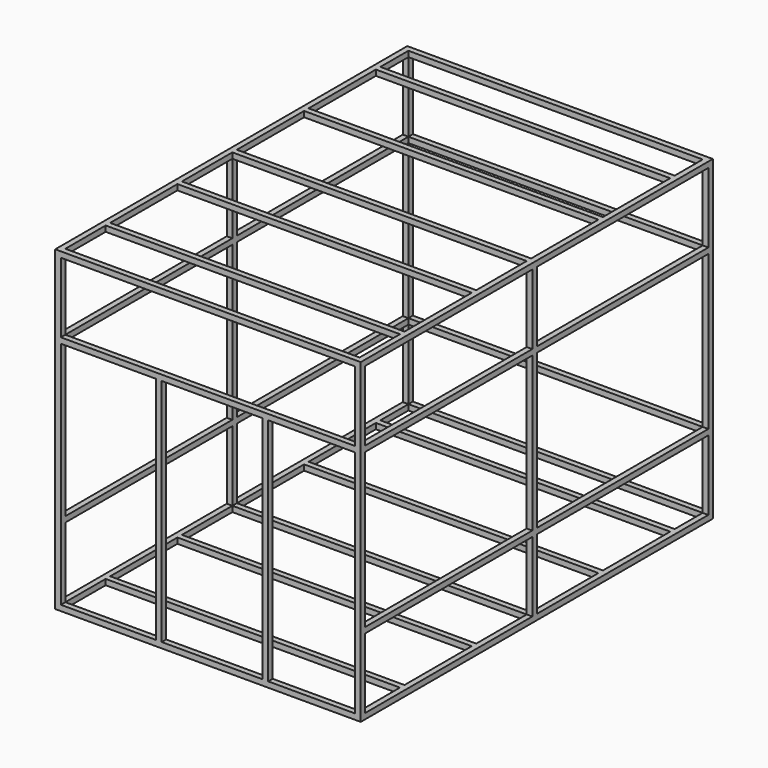
from build123d import *

# Parameters (mm, degrees)
F0_W     = 50.8
F0_H     = 635
F0_H_2   = 1397
F1_DEPTH = 50.8
F2_W     = 50.8
F2_H     = 50.8
F3_DEPTH = 2667
F4_W     = 50.8
F4_H     = 2082.8
F5_DEPTH = 50.8
F6_W     = 3987.8
F6_H     = 2870.2
F6_W_2   = 1892.3
F6_H_2   = 635
F6_H_3   = 1397
F6_W_3   = 1943.1
F7_DEPTH = 50.8


with BuildPart() as f1:
    # F0 (on Right) → F1 (new body)
    with BuildSketch(Plane.YZ):
        Polygon((-2738.104361, 736.6), (-2788.904361, 736.6), (-2788.904361, -2133.6), (-2738.104361, -2133.6), (-2738.104361, -2082.8), (-2738.104361, -1447.8), (-2738.104361, -1397), (-2738.104361, 0), (-2738.104361, 50.8), (-2738.104361, 685.8), align=None)
        Polygon((1148.095639, 736.6), (-2738.104361, 736.6), (-2738.104361, 685.8), (-845.804361, 685.8), (-795.004361, 685.8), (1148.095639, 685.8), align=None)
        Polygon((1198.895639, 736.6), (1148.095639, 736.6), (1148.095639, 685.8), (1148.095639, 50.8), (1148.095639, 0), (1148.095639, -1397), (1148.095639, -1447.8), (1148.095639, -2082.8), (1148.095639, -2133.6), (1198.895639, -2133.6), align=None)
        Polygon((-2738.104361, -2082.8), (-2738.104361, -2133.6), (1148.095639, -2133.6), (1148.095639, -2082.8), (-795.004361, -2082.8), (-845.804361, -2082.8), align=None)
        Polygon((-845.804361, 50.8), (-2738.104361, 50.8), (-2738.104361, 0), (-845.804361, 0), (-795.004361, 0), (1148.095639, 0), (1148.095639, 50.8), (-795.004361, 50.8), align=None)
        with Locations((-820.404361, 368.3)):
            Rectangle(F0_W, F0_H)
        with Locations((-820.404361, -698.5)):
            Rectangle(F0_W, F0_H_2)
        with Locations((-820.404361, -1765.3)):
            Rectangle(F0_W, F0_H)
        Polygon((-2738.104361, -1397), (-2738.104361, -1447.8), (-845.804361, -1447.8), (-795.004361, -1447.8), (1148.095639, -1447.8), (1148.095639, -1397), (-795.004361, -1397), (-845.804361, -1397), align=None)
    extrude(amount=F1_DEPTH)

    # F2 (on face) → F3 (join)
    with BuildSketch(Plane.YZ.offset(50.8)):
        with Locations((-2763.504361, 711.2)):
            Rectangle(F2_W, F2_H)
        with Locations((-2763.504361, 25.4)):
            Rectangle(F2_W, F2_H)
        with Locations((-2763.504361, -2108.2)):
            Rectangle(F2_W, F2_H)
        with Locations((-820.404361, -2108.2)):
            Rectangle(F2_W, F2_H)
        with Locations((1173.495639, -2108.2)):
            Rectangle(F2_W, F2_H)
        with Locations((1173.495639, -1422.4)):
            Rectangle(F2_W, F2_H)
        with Locations((1173.495639, 25.4)):
            Rectangle(F2_W, F2_H)
        with Locations((1173.495639, 711.2)):
            Rectangle(F2_W, F2_H)
        with Locations((-820.404361, 711.2)):
            Rectangle(F2_W, F2_H)
        with Locations((-2255.504361, -2108.2)):
            Rectangle(F2_W, F2_H)
        with Locations((-1442.704361, -2108.2)):
            Rectangle(F2_W, F2_H)
        with Locations((-7.604361, -2108.2)):
            Rectangle(F2_W, F2_H)
        with Locations((805.195639, -2108.2)):
            Rectangle(F2_W, F2_H)
        with Locations((805.195639, 711.2)):
            Rectangle(F2_W, F2_H)
        with Locations((-7.604361, 711.2)):
            Rectangle(F2_W, F2_H)
        with Locations((-1442.704361, 711.2)):
            Rectangle(F2_W, F2_H)
        with Locations((-2255.504361, 711.2)):
            Rectangle(F2_W, F2_H)
    extrude(amount=F3_DEPTH)

    # F4 (on face) → F5 (join)
    with BuildSketch(Plane.XZ.offset(2788.904361)):
        with Locations((939.8, -1041.4)):
            Rectangle(F4_W, F4_H)
        with Locations((1905, -1041.4)):
            Rectangle(F4_W, F4_H)
    extrude(amount=-F5_DEPTH)

    # F6 (on face) → F7 (join)
    with BuildSketch(Plane.YZ.offset(2717.8)):
        with Locations((-795.004361, -698.5)):
            Rectangle(F6_W, F6_H)
        with Locations((-1791.954361, -1765.3)):
            Rectangle(F6_W_2, F6_H_2, mode=Mode.SUBTRACT)
        with Locations((-1791.954361, -698.5)):
            Rectangle(F6_W_2, F6_H_3, mode=Mode.SUBTRACT)
        with Locations((176.545639, -1765.3)):
            Rectangle(F6_W_3, F6_H_2, mode=Mode.SUBTRACT)
        with Locations((176.545639, -698.5)):
            Rectangle(F6_W_3, F6_H_3, mode=Mode.SUBTRACT)
        with Locations((-1791.954361, 368.3)):
            Rectangle(F6_W_2, F6_H_2, mode=Mode.SUBTRACT)
        with Locations((176.545639, 368.3)):
            Rectangle(F6_W_3, F6_H_2, mode=Mode.SUBTRACT)
    extrude(amount=F7_DEPTH)


solid = f1.part
